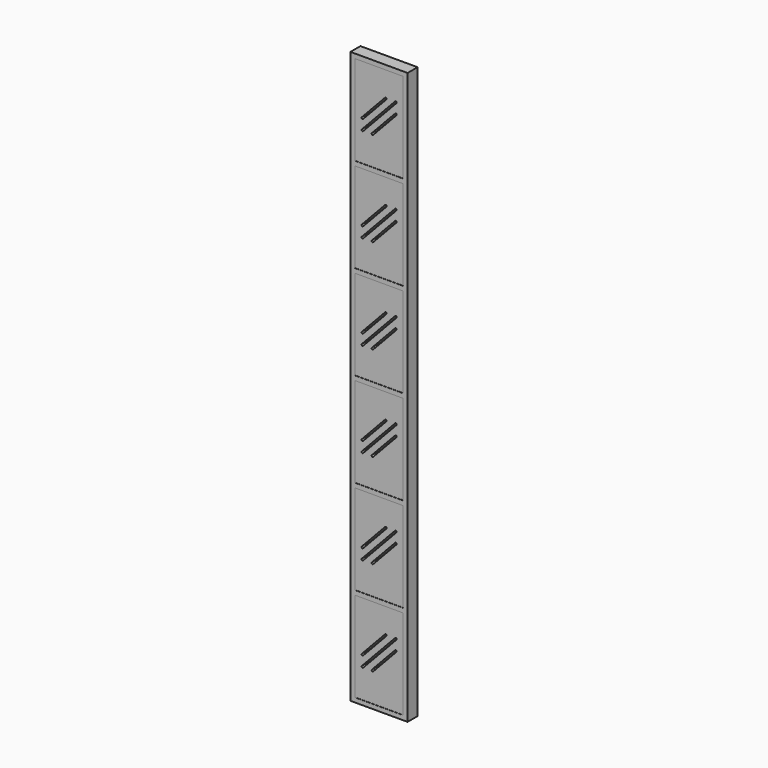
from build123d import *

# Parameters (mm, degrees)
F0_W          = 203.2
F0_H          = 2032
F0_W_2        = 171.45
F0_H_2        = 320.1458333333
F1_DEPTH      = 22.225
F1_DEPTH_BACK = 22.225
F2_W          = 171.45
F2_H          = 320.1458333333
F3_DEPTH      = 21.59
F3_DEPTH_BACK = 21.59


with BuildPart() as f1:
    # F0 (on Front) → F1 (new body, two sides)
    with BuildSketch(Plane.XZ) as f1_sk:
        with Locations((101.6, 1016)):
            Rectangle(F0_W, F0_H)
        with Locations((101.6, 175.9479166667)):
            Rectangle(F0_W_2, F0_H_2, mode=Mode.SUBTRACT)
        with Locations((101.6, 511.96875)):
            Rectangle(F0_W_2, F0_H_2, mode=Mode.SUBTRACT)
        with Locations((101.6, 847.9895833333)):
            Rectangle(F0_W_2, F0_H_2, mode=Mode.SUBTRACT)
        with Locations((101.6, 1184.0104166667)):
            Rectangle(F0_W_2, F0_H_2, mode=Mode.SUBTRACT)
        with Locations((101.6, 1520.03125)):
            Rectangle(F0_W_2, F0_H_2, mode=Mode.SUBTRACT)
        with Locations((101.6, 1856.0520833333)):
            Rectangle(F0_W_2, F0_H_2, mode=Mode.SUBTRACT)
    extrude(amount=F1_DEPTH)
    extrude(f1_sk.sketch, amount=-F1_DEPTH_BACK)

    # F2 (on Front) → F3 (join, two sides)
    with BuildSketch(Plane.XZ) as f3_sk:
        with Locations((101.6, 1520.03125)):
            Rectangle(F2_W, F2_H)
        with BuildLine():
            Line((40.0148101771, 1504.2365351889), (122.7722068767, 1592.3491351889))
            ThreePointArc((122.7722068767, 1592.3491351889), (127.2601313551, 1592.4897903562), (127.4007865224, 1588.0018658778))
            Line((127.4007865224, 1588.0018658778), (44.6433898229, 1499.8892658778))
            ThreePointArc((44.6433898229, 1499.8892658778), (40.1554653445, 1499.7486107105), (40.0148101771, 1504.2365351889))
        make_face(mode=Mode.SUBTRACT)
        with BuildLine():
            ThreePointArc((158.5566101771, 1592.3491351889), (163.0445346555, 1592.4897903562), (163.1851898229, 1588.0018658778))
            Line((163.1851898229, 1588.0018658778), (44.6433898229, 1461.7892658778))
            ThreePointArc((44.6433898229, 1461.7892658778), (40.1554653445, 1461.6486107105), (40.0148101771, 1466.1365351889))
            Line((40.0148101771, 1466.1365351889), (158.5566101771, 1592.3491351889))
        make_face(mode=Mode.SUBTRACT)
        with BuildLine():
            Line((75.7992134776, 1466.1365351889), (158.5566101771, 1554.2491351889))
            ThreePointArc((158.5566101771, 1554.2491351889), (163.0445346555, 1554.3897903562), (163.1851898229, 1549.9018658778))
            Line((163.1851898229, 1549.9018658778), (80.4277931233, 1461.7892658778))
            ThreePointArc((80.4277931233, 1461.7892658778), (75.9398686449, 1461.6486107105), (75.7992134776, 1466.1365351889))
        make_face(mode=Mode.SUBTRACT)
        with Locations((101.6, 1184.0104166667)):
            Rectangle(F2_W, F2_H)
        with BuildLine():
            Line((40.0148101771, 1168.2156933889), (122.7722068767, 1256.3282933889))
            ThreePointArc((122.7722068767, 1256.3282933889), (127.2601313551, 1256.4689485562), (127.4007865224, 1251.9810240778))
            Line((127.4007865224, 1251.9810240778), (44.6433898229, 1163.8684240778))
            ThreePointArc((44.6433898229, 1163.8684240778), (40.1554653445, 1163.7277689105), (40.0148101771, 1168.2156933889))
        make_face(mode=Mode.SUBTRACT)
        with BuildLine():
            ThreePointArc((158.5566101771, 1256.3282933889), (163.0445346555, 1256.4689485562), (163.1851898229, 1251.9810240778))
            Line((163.1851898229, 1251.9810240778), (44.6433898229, 1125.7684240778))
            ThreePointArc((44.6433898229, 1125.7684240778), (40.1554653445, 1125.6277689105), (40.0148101771, 1130.1156933889))
            Line((40.0148101771, 1130.1156933889), (158.5566101771, 1256.3282933889))
        make_face(mode=Mode.SUBTRACT)
        with BuildLine():
            Line((75.7992134776, 1130.1156933889), (158.5566101771, 1218.2282933889))
            ThreePointArc((158.5566101771, 1218.2282933889), (163.0445346555, 1218.3689485562), (163.1851898229, 1213.8810240778))
            Line((163.1851898229, 1213.8810240778), (80.4277931233, 1125.7684240778))
            ThreePointArc((80.4277931233, 1125.7684240778), (75.9398686449, 1125.6277689105), (75.7992134776, 1130.1156933889))
        make_face(mode=Mode.SUBTRACT)
        with Locations((101.6, 847.9895833333)):
            Rectangle(F2_W, F2_H)
        with BuildLine():
            Line((40.0148101771, 832.1948515889), (122.7722068767, 920.3074515889))
            ThreePointArc((122.7722068767, 920.3074515889), (127.2601313551, 920.4481067562), (127.4007865224, 915.9601822778))
            Line((127.4007865224, 915.9601822778), (44.6433898229, 827.8475822778))
            ThreePointArc((44.6433898229, 827.8475822778), (40.1554653445, 827.7069271105), (40.0148101771, 832.1948515889))
        make_face(mode=Mode.SUBTRACT)
        with BuildLine():
            ThreePointArc((158.5566101771, 920.3074515889), (163.0445346555, 920.4481067562), (163.1851898229, 915.9601822778))
            Line((163.1851898229, 915.9601822778), (44.6433898229, 789.7475822778))
            ThreePointArc((44.6433898229, 789.7475822778), (40.1554653445, 789.6069271105), (40.0148101771, 794.0948515889))
            Line((40.0148101771, 794.0948515889), (158.5566101771, 920.3074515889))
        make_face(mode=Mode.SUBTRACT)
        with BuildLine():
            Line((75.7992134776, 794.0948515889), (158.5566101771, 882.2074515889))
            ThreePointArc((158.5566101771, 882.2074515889), (163.0445346555, 882.3481067562), (163.1851898229, 877.8601822778))
            Line((163.1851898229, 877.8601822778), (80.4277931233, 789.7475822778))
            ThreePointArc((80.4277931233, 789.7475822778), (75.9398686449, 789.6069271105), (75.7992134776, 794.0948515889))
        make_face(mode=Mode.SUBTRACT)
        with Locations((101.6, 511.96875)):
            Rectangle(F2_W, F2_H)
        with BuildLine():
            Line((40.0148101771, 496.1740097889), (122.7722068767, 584.2866097889))
            ThreePointArc((122.7722068767, 584.2866097889), (127.2601313551, 584.4272649562), (127.4007865224, 579.9393404778))
            Line((127.4007865224, 579.9393404778), (44.6433898229, 491.8267404778))
            ThreePointArc((44.6433898229, 491.8267404778), (40.1554653445, 491.6860853105), (40.0148101771, 496.1740097889))
        make_face(mode=Mode.SUBTRACT)
        with BuildLine():
            ThreePointArc((158.5566101771, 584.2866097889), (163.0445346555, 584.4272649562), (163.1851898229, 579.9393404778))
            Line((163.1851898229, 579.9393404778), (44.6433898229, 453.7267404778))
            ThreePointArc((44.6433898229, 453.7267404778), (40.1554653445, 453.5860853105), (40.0148101771, 458.0740097889))
            Line((40.0148101771, 458.0740097889), (158.5566101771, 584.2866097889))
        make_face(mode=Mode.SUBTRACT)
        with BuildLine():
            Line((75.7992134776, 458.0740097889), (158.5566101771, 546.1866097889))
            ThreePointArc((158.5566101771, 546.1866097889), (163.0445346555, 546.3272649562), (163.1851898229, 541.8393404778))
            Line((163.1851898229, 541.8393404778), (80.4277931233, 453.7267404778))
            ThreePointArc((80.4277931233, 453.7267404778), (75.9398686449, 453.5860853105), (75.7992134776, 458.0740097889))
        make_face(mode=Mode.SUBTRACT)
        Polygon((187.325, 336.0208333333), (15.875, 336.0208333333), (15.875, 15.875), (187.325, 15.875), (187.325, 246.0921333333), align=None)
        with BuildLine():
            Line((40.0148101771, 160.1531679889), (122.7722068767, 248.2657679889))
            ThreePointArc((122.7722068767, 248.2657679889), (127.2601313551, 248.4064231562), (127.4007865224, 243.9184986778))
            Line((127.4007865224, 243.9184986778), (44.6433898229, 155.8058986778))
            ThreePointArc((44.6433898229, 155.8058986778), (40.1554653445, 155.6652435105), (40.0148101771, 160.1531679889))
        make_face(mode=Mode.SUBTRACT)
        with BuildLine():
            ThreePointArc((158.5566101771, 248.2657679889), (162.0398214714, 249.0441237794), (164.0459, 246.0921333333))
            ThreePointArc((164.0459, 246.0921333333), (163.8228904461, 244.923211862), (163.1851898229, 243.9184986778))
            Line((163.1851898229, 243.9184986778), (44.6433898229, 117.7058986778))
            ThreePointArc((44.6433898229, 117.7058986778), (40.1554653445, 117.5652435105), (40.0148101771, 122.0531679889))
            Line((40.0148101771, 122.0531679889), (158.5566101771, 248.2657679889))
        make_face(mode=Mode.SUBTRACT)
        with BuildLine():
            Line((75.7992134776, 122.0531679889), (158.5566101771, 210.1657679889))
            ThreePointArc((158.5566101771, 210.1657679889), (163.0445346555, 210.3064231562), (163.1851898229, 205.8184986778))
            Line((163.1851898229, 205.8184986778), (80.4277931233, 117.7058986778))
            ThreePointArc((80.4277931233, 117.7058986778), (75.9398686449, 117.5652435105), (75.7992134776, 122.0531679889))
        make_face(mode=Mode.SUBTRACT)
        with Locations((101.6, 1856.0520833333)):
            Rectangle(F2_W, F2_H)
        with BuildLine():
            Line((40.0148101771, 1840.2573769889), (122.7722068767, 1928.3699769889))
            ThreePointArc((122.7722068767, 1928.3699769889), (127.2601313551, 1928.5106321562), (127.4007865224, 1924.0227076778))
            Line((127.4007865224, 1924.0227076778), (44.6433898229, 1835.9101076778))
            ThreePointArc((44.6433898229, 1835.9101076778), (40.1554653445, 1835.7694525105), (40.0148101771, 1840.2573769889))
        make_face(mode=Mode.SUBTRACT)
        with BuildLine():
            ThreePointArc((158.5566101771, 1928.3699769889), (163.0445346555, 1928.5106321562), (163.1851898229, 1924.0227076778))
            Line((163.1851898229, 1924.0227076778), (44.6433898229, 1797.8101076778))
            ThreePointArc((44.6433898229, 1797.8101076778), (40.1554653445, 1797.6694525105), (40.0148101771, 1802.1573769889))
            Line((40.0148101771, 1802.1573769889), (158.5566101771, 1928.3699769889))
        make_face(mode=Mode.SUBTRACT)
        with BuildLine():
            Line((75.7992134776, 1802.1573769889), (158.5566101771, 1890.2699769889))
            ThreePointArc((158.5566101771, 1890.2699769889), (163.0445346555, 1890.4106321562), (163.1851898229, 1885.9227076778))
            Line((163.1851898229, 1885.9227076778), (80.4277931233, 1797.8101076778))
            ThreePointArc((80.4277931233, 1797.8101076778), (75.9398686449, 1797.6694525105), (75.7992134776, 1802.1573769889))
        make_face(mode=Mode.SUBTRACT)
    extrude(amount=F3_DEPTH)
    extrude(f3_sk.sketch, amount=-F3_DEPTH_BACK)


solid = f1.part
